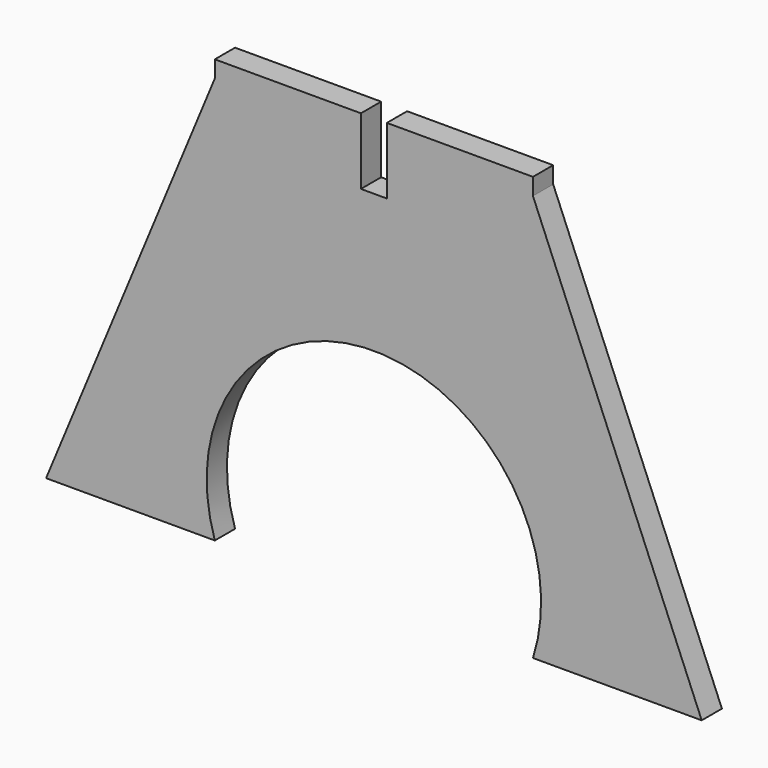
from build123d import *

# Parameters (mm, degrees)
F1_DEPTH = 19.05
F3_DEPTH = 19.05


with BuildPart() as f1:
    # F0 (on Front) → F1 (new body)
    with BuildSketch(Plane.XZ):
        with BuildLine():
            Line((119.888, 155.774192), (0, 155.774192))
            Line((0, 155.774192), (-119.888, 155.774192))
            Line((-119.888, 155.774192), (-119.888, 143.074192))
            Line((-119.888, 143.074192), (-247.076714, -163.503496))
            Line((-247.076714, -163.503496), (-119.888, -163.503496))
            ThreePointArc((-119.888, -163.503496), (0, 1.376312), (119.888, -163.503496))
            Line((119.888, -163.503496), (247.076714, -163.503496))
            Line((247.076714, -163.503496), (119.888, 143.074192))
            Line((119.888, 143.074192), (119.888, 155.774192))
        make_face()
    extrude(amount=F1_DEPTH)

    # F2 (on Front) → F3 (cut)
    with BuildSketch(Plane.XZ):
        Polygon((-9.779, 105.583792), (0, 105.583792), (9.779, 105.583792), (9.779, 155.774192), (0, 155.774192), (-9.779, 155.774192), align=None)
    extrude(amount=F3_DEPTH, mode=Mode.SUBTRACT)


solid = f1.part
